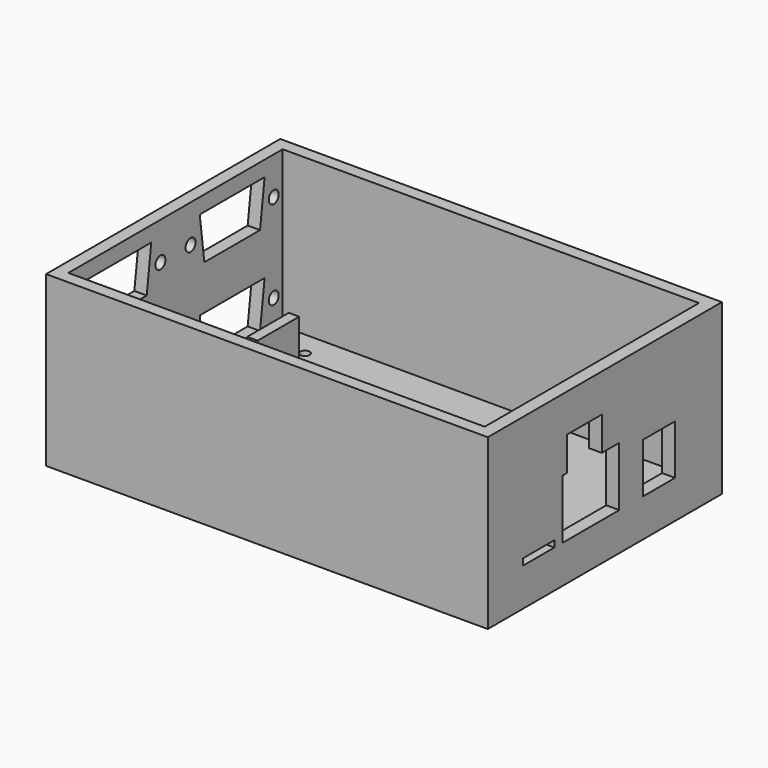
from build123d import *

# Parameters (mm, degrees)
F0_W      = 107.95
F0_H      = 71.5264
F1_DEPTH  = 3.175
F2_W      = 101.7524
F2_H      = 65.46088
F3_DEPTH  = 38.1
F4_W      = 17.272
F4_H      = 14.478
F4_W_2    = 9.779
F4_H_2    = 12.192
F5_DEPTH  = 3.176
F6_W      = 9.525
F6_H      = 1.5875
F7_DEPTH  = 3.175
F8_DEPTH  = 3.176
F9_W      = 2.54
F9_H      = 12.7
F10_DEPTH = 12.7
F11_R     = 1.524
F12_DEPTH = 3.0226
F13_R     = 1.143
F14_DEPTH = 41.276
F15_W     = 10.668
F15_H     = 8.255
F16_DEPTH = 3.175


with BuildPart() as f1:
    # F0 (on Top) → F1 (new body)
    with BuildSketch(Plane.XY):
        with Locations((53.975, 35.7632)):
            Rectangle(F0_W, F0_H)
    extrude(amount=F1_DEPTH)

    # F2 (on face) → F3 (join)
    with BuildSketch(Plane.XY.offset(3.175)):
        Polygon((107.95, 71.5264), (0, 71.5264), (0, 68.49364), (0, 3.03276), (0, 0), (107.95, 0), align=None)
        with Locations((53.8988, 35.7632)):
            Rectangle(F2_W, F2_H, mode=Mode.SUBTRACT)
    extrude(amount=F3_DEPTH)

    # F4 (on face) → F5 (cut, through all)
    with BuildSketch(Plane(origin=(104.775, 0, 0), x_dir=(0, -1, 0), z_dir=(-1, 0, 0))):
        with Locations((-31.5214, 16.51)):
            Rectangle(F4_W, F4_H)
        with Locations((-52.3367, 15.367)):
            Rectangle(F4_W_2, F4_H_2)
    extrude(amount=-F5_DEPTH, mode=Mode.SUBTRACT)

    # F6 (on face) → F7 (cut, through all)
    with BuildSketch(Plane.YZ.offset(107.95)):
        with Locations((15.5829, 10.06475)):
            Rectangle(F6_W, F6_H)
    extrude(amount=-F7_DEPTH, mode=Mode.SUBTRACT)

    # F4 (on face) → F8 (cut, through all)
    with BuildSketch(Plane(origin=(104.775, 0, 0), x_dir=(0, -1, 0), z_dir=(-1, 0, 0))):
        with Locations((-31.5214, 16.51)):
            Rectangle(F4_W, F4_H)
        with Locations((-52.3367, 15.367)):
            Rectangle(F4_W_2, F4_H_2)
    extrude(amount=-F8_DEPTH, mode=Mode.SUBTRACT)

    # F9 (on face) → F10 (join)
    with BuildSketch(Plane.XY.offset(3.175)):
        with Locations((16.9672, 48.17364)):
            Rectangle(F9_W, F9_H)
    extrude(amount=F10_DEPTH)

    # F11 (on face) → F12 (cut, through all)
    with BuildSketch(Plane(origin=(0, 0, 0), x_dir=(0, -1, 0), z_dir=(-1, 0, 0))):
        Polygon((-43.1673, 37.513494), (-62.9793, 37.513494), (-61.5823, 26.681205), (-44.5643, 26.681205), align=None)
        Polygon((-43.1673, 15.815138), (-62.9793, 15.815138), (-61.5823, 4.98285), (-44.5643, 4.98285), align=None)
        Polygon((-8.5471, 37.513494), (-28.3591, 37.513494), (-26.9621, 26.681205), (-9.9441, 26.681205), align=None)
        Polygon((-8.5471, 15.815138), (-28.3591, 15.815138), (-26.9621, 4.98285), (-9.9441, 4.98285), align=None)
        with Locations((-40.3733, 32.09735)):
            Circle(F11_R)
        with Locations((-65.7733, 32.09735)):
            Circle(F11_R)
        with Locations((-65.7733, 10.398994)):
            Circle(F11_R)
        with Locations((-40.3733, 10.398994)):
            Circle(F11_R)
        with Locations((-31.1531, 10.398994)):
            Circle(F11_R)
        with Locations((-5.7531, 10.398994)):
            Circle(F11_R)
        with Locations((-5.7531, 32.09735)):
            Circle(F11_R)
        with Locations((-31.1531, 32.09735)):
            Circle(F11_R)
    extrude(amount=-F12_DEPTH, mode=Mode.SUBTRACT)

    # F13 (on face) → F14 (cut, through all)
    with BuildSketch(Plane(origin=(0, 0, 0), x_dir=(1, 0, 0), z_dir=(0, 0, -1))):
        with Locations((13.335, -62.4332)):
            Circle(F13_R)
        with Locations((13.335, -35.7632)):
            Circle(F13_R)
        with Locations((13.335, -9.0932)):
            Circle(F13_R)
    extrude(amount=-F14_DEPTH, mode=Mode.SUBTRACT)

    # F15 (on face) → F16 (cut, through all)
    with BuildSketch(Plane.YZ.offset(107.95)):
        with Locations((29.4894, 27.8765)):
            Rectangle(F15_W, F15_H)
    extrude(amount=-F16_DEPTH, mode=Mode.SUBTRACT)


solid = f1.part
